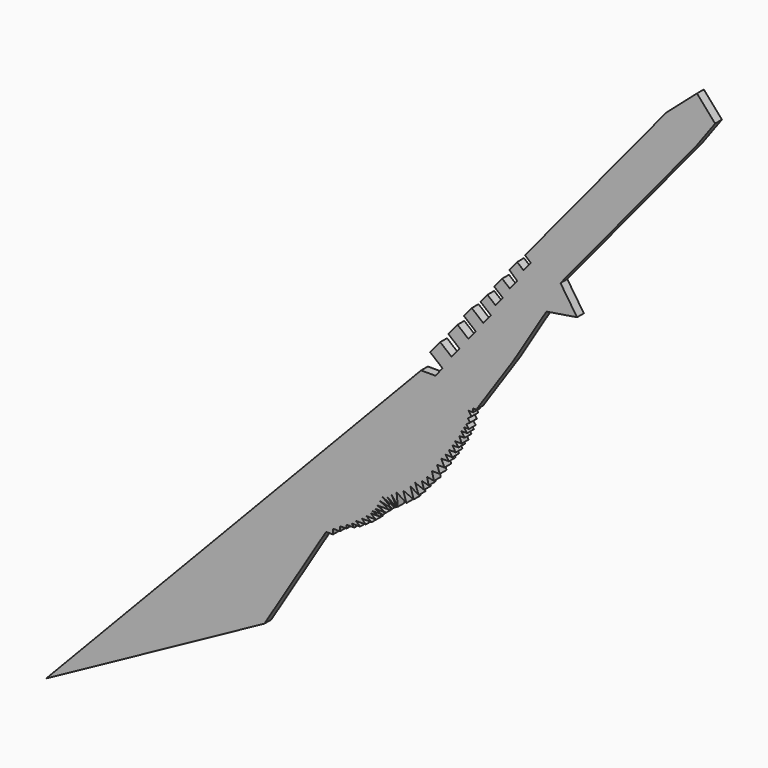
from build123d import *

# Parameters (mm, degrees)
F1_DEPTH = 1.27


with BuildPart() as f1:
    # F0 (on Front) → F1 (new body)
    with BuildSketch(Plane.XZ):
        Polygon((31.435996, 36.724295), (51.609881, 61.207164), (54.505855, 65.174182), (51.805742, 68.258226), (47.221687, 64.244838), (27.331568, 40.106345), align=None)
        Polygon((33.907399, 33.032119), (31.435996, 36.724295), (27.331568, 40.106345), (26.134862, 38.654033), (27.016983, 37.927165), (25.923324, 36.599909), (24.968057, 37.387049), (23.803444, 35.973684), (24.991162, 34.882604), (23.87859, 33.532396), (22.737729, 34.472465), (21.549792, 33.030793), (22.830821, 31.975225), (21.737482, 30.648356), (20.536821, 31.637701), (19.501161, 30.380832), (21.054899, 29.100551), (19.916793, 27.719354), (18.198055, 29.135594), (17.023039, 27.709604), (18.789157, 26.254323), (17.689198, 24.919421), (16.074062, 26.250293), (14.70201, 24.585181), (16.381021, 23.201676), (15.179227, 21.743188), (13.492946, 23.132684), (11.994152, 21.313759), (13.842246, 19.79093), (12.76418, 18.482599), (10.629401, 18.482599), (-45.317493, -40.18655), (-12.743622, -22.388158), (-4.106611, -8.254142), (-3.546211, -7.337077), (-2.509889, -7.337077), (-2.509889, -6.584582), (-1.465608, -6.584582), (-1.465608, -5.911632), (-0.487286, -5.911632), (-0.487286, -5.406398), (0.678638, -5.406398), (0.294408, -4.989546), (1.541625, -4.989546), (0.918016, -4.439303), (2.38533, -4.439303), (1.798405, -3.852378), (3.265719, -3.852378), (2.458696, -3.302135), (3.92601, -3.302135), (3.082028, -2.731179), (4.379619, -2.731179), (3.326856, -2.339453), (4.89376, -2.339453), (3.722346, -1.922547), (5.389937, -1.922547), (4.072334, -1.366683), (5.822276, -1.366683), (4.475968, -0.654733), (6.313379, -1.099426), (4.857528, 0), (6.717285, -0.830613), (5.429589, 0.337804), (6.98239, -0.678996), (6.13036, 0.893481), (7.173772, -0.558674), (6.974065, 1.296992), (8.441378, 0.343238), (7.964502, 1.847235), (9.538486, 1.173172), (9.024926, 2.787217), (10.272143, 1.980195), (9.758583, 3.447509), (11.079165, 2.933949), (10.74902, 3.997752), (11.77614, 3.740972), (11.519359, 4.804774), (12.54648, 4.584677), (12.253017, 5.795211), (13.426868, 5.795211), (13.023357, 6.859014), (14.123842, 6.859014), (13.646965, 7.886133), (14.784134, 7.886133), (14.270574, 8.619791), (15.297693, 8.583108), (14.784134, 9.390131), (15.811253, 9.390131), (15.297693, 10.178116), (16.224287, 10.178116), (15.719054, 10.838806), (16.690658, 10.838806), (16.34088, 11.732681), (17.118163, 11.732681), (16.651792, 12.471099), (17.506804, 12.471099), (17.001571, 13.099144), (17.774189, 13.099144), (17.401093, 13.596605), (17.954518, 14.011674), (17.614069, 14.465607), (18.167494, 14.880675), (17.701125, 15.502501), (18.400678, 15.502501), (18.400678, 16.024083), (18.874273, 16.024083), (24.364635, 24.158362), (29.332101, 32.292642), align=None)
    extrude(amount=F1_DEPTH)


solid = f1.part
